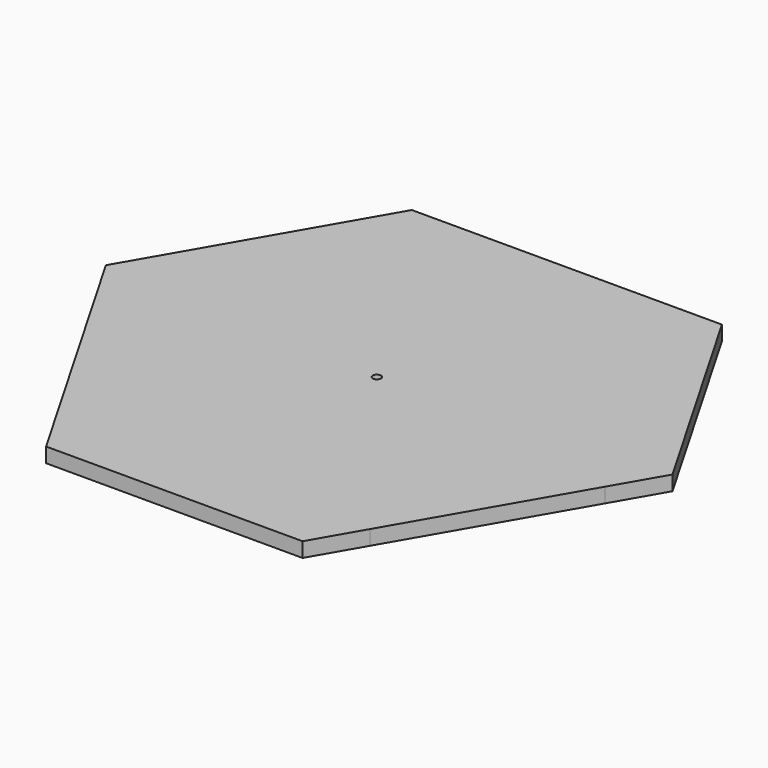
from build123d import *

# Parameters (mm, degrees)
F1_DEPTH = 9
F3_DEPTH = 9
F4_R     = 2.5
F5_DEPTH = 25


with BuildPart() as f1:
    # F0 (on Top) → F1 (new body)
    with BuildSketch(Plane.XY):
        Polygon((60, 145.017109), (-60, 145.017109), (-155.5885, -20.54703), (-95.5885, -124.470079), (95.5885, -124.470079), (155.5885, -20.54703), align=None)
    extrude(amount=F1_DEPTH)

    # F2 (on face) → F3 (join)
    with BuildSketch(Plane.XY.offset(9)):
        Polygon((-94.641016, 145.017109), (-172.909008, 9.45297), (-155.5885, -20.54703), (-60, 145.017109), align=None)
        Polygon((94.641016, 145.017109), (60, 145.017109), (155.5885, -20.54703), (172.909008, 9.45297), align=None)
        Polygon((95.5885, -124.470079), (-95.5885, -124.470079), (-78.267992, -154.470079), (78.267992, -154.470079), align=None)
    extrude(amount=-F3_DEPTH)

    # F4 (on face) → F5 (cut)
    with BuildSketch(Plane.XY.offset(9)):
        Circle(F4_R)
    extrude(amount=-F5_DEPTH, mode=Mode.SUBTRACT)


solid = f1.part
